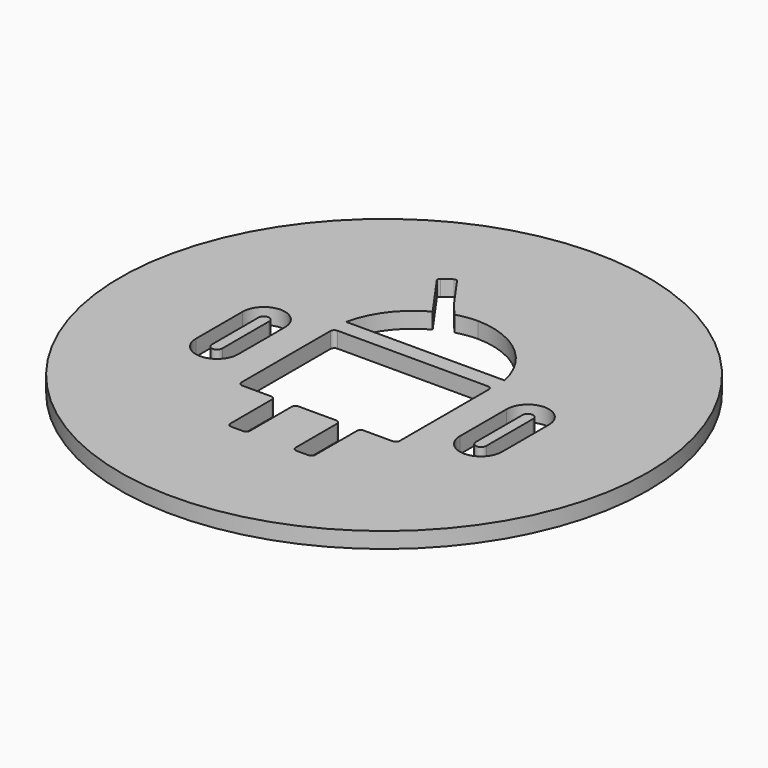
from build123d import *

# Parameters (mm, degrees)
F0_R     = 50
F2_DEPTH = 3
F4_R     = 1.5
F5_DEPTH = 3
F6_DEPTH = 3


with BuildPart() as f2:
    # F0 (on Top) → F2 (new body)
    with BuildSketch(Plane.XY):
        Circle(F0_R)
    extrude(amount=F2_DEPTH)

    # F4 (on face) → F5 (cut)
    with BuildSketch(Plane.XY.offset(3)):
        with BuildLine():
            Line((-15, 9.7737704918), (0, 9.7737704918))
            Line((0, 9.7737704918), (15, 9.7737704918))
            ThreePointArc((15, 9.7737704918), (9.6695107404, 18.6041395087), (0, 22.1944173204))
            ThreePointArc((0, 22.1944173204), (-1.9935135756, 22.0276872196), (-3.9494299266, 21.6078223243))
            ThreePointArc((-3.9494299266, 21.6078223243), (-5.5466032745, 21.0617176712), (-7.0756111193, 20.3466456428))
            ThreePointArc((-7.0756111193, 20.3466456428), (-12.2093202117, 15.9382603993), (-15, 9.7737704918))
        make_face()
        with Locations((-7.5, 16.0260769339)):
            Circle(F4_R, mode=Mode.SUBTRACT)
        with Locations((7.5, 16.0260769339)):
            Circle(F4_R, mode=Mode.SUBTRACT)
        with Locations((-7.5, 16.0260769339)):
            Circle(F4_R)
        with Locations((7.5, 16.0260769339)):
            Circle(F4_R)
        with BuildLine():
            ThreePointArc((21, -8.3022542986), (25, -12.3022542986), (29, -8.3022542986))
            Line((29, -8.3022542986), (29, 2.7737704918))
            ThreePointArc((29, 2.7737704918), (25, 6.7737704918), (21, 2.7737704918))
            Line((21, 2.7737704918), (21, -8.3022542986))
        make_face()
        with BuildLine():
            Line((26, 2.7737704918), (26, -8.3022542986))
            ThreePointArc((26, -8.3022542986), (25, -9.3022542986), (24, -8.3022542986))
            Line((24, -8.3022542986), (24, 2.7737704918))
            ThreePointArc((24, 2.7737704918), (25, 3.7737704918), (26, 2.7737704918))
        make_face(mode=Mode.SUBTRACT)
        with BuildLine():
            Line((-21, -8.3022542986), (-21, 2.7737704918))
            ThreePointArc((-21, 2.7737704918), (-25, 6.7737704918), (-29, 2.7737704918))
            Line((-29, 2.7737704918), (-29, -8.3022542986))
            ThreePointArc((-29, -8.3022542986), (-25, -12.3022542986), (-21, -8.3022542986))
        make_face()
        with BuildLine():
            Line((-26, -8.3022542986), (-26, 2.7737704918))
            ThreePointArc((-26, 2.7737704918), (-25, 3.7737704918), (-24, 2.7737704918))
            Line((-24, 2.7737704918), (-24, -8.3022542986))
            ThreePointArc((-24, -8.3022542986), (-25, -9.3022542986), (-26, -8.3022542986))
        make_face(mode=Mode.SUBTRACT)
        with BuildLine():
            Line((14.25, 6.7737704918), (0, 6.7737704918))
            Line((0, 6.7737704918), (-14.25, 6.7737704918))
            ThreePointArc((-14.25, 6.7737704918), (-14.7803300859, 6.5541005777), (-15, 6.0237704918))
            Line((-15, 6.0237704918), (-15, -15.0237704918))
            ThreePointArc((-15, -15.0237704918), (-14.7803300859, -15.5541005777), (-14.25, -15.7737704918))
            Line((-14.25, -15.7737704918), (-8.7902552709, -15.7737704918))
            ThreePointArc((-8.7902552709, -15.7737704918), (-8.259925185, -15.9934404059), (-8.0402552709, -16.5237704918))
            Line((-8.0402552709, -16.5237704918), (-8.0402552709, -26.3196417335))
            ThreePointArc((-8.0402552709, -26.3196417335), (-7.8205853568, -26.8499718194), (-7.2902552709, -27.0696417335))
            Line((-7.2902552709, -27.0696417335), (-5.0634240992, -27.0696417335))
            ThreePointArc((-5.0634240992, -27.0696417335), (-4.5330940133, -26.8499718194), (-4.3134240992, -26.3196417335))
            Line((-4.3134240992, -26.3196417335), (-4.3134240992, -16.5237704918))
            ThreePointArc((-4.3134240992, -16.5237704918), (-4.0937541851, -15.9934404059), (-3.5634240992, -15.7737704918))
            Line((-3.5634240992, -15.7737704918), (0, -15.7737704918))
            Line((0, -15.7737704918), (3.5634240992, -15.7737704918))
            ThreePointArc((3.5634240992, -15.7737704918), (4.0937541851, -15.9934404059), (4.3134240992, -16.5237704918))
            Line((4.3134240992, -16.5237704918), (4.3134240992, -26.3196417335))
            ThreePointArc((4.3134240992, -26.3196417335), (4.5330940133, -26.8499718194), (5.0634240992, -27.0696417335))
            Line((5.0634240992, -27.0696417335), (7.2902552709, -27.0696417335))
            ThreePointArc((7.2902552709, -27.0696417335), (7.8205853568, -26.8499718194), (8.0402552709, -26.3196417335))
            Line((8.0402552709, -26.3196417335), (8.0402552709, -16.5237704918))
            ThreePointArc((8.0402552709, -16.5237704918), (8.259925185, -15.9934404059), (8.7902552709, -15.7737704918))
            Line((8.7902552709, -15.7737704918), (14.25, -15.7737704918))
            ThreePointArc((14.25, -15.7737704918), (14.7803300859, -15.5541005777), (15, -15.0237704918))
            Line((15, -15.0237704918), (15, 6.0237704918))
            ThreePointArc((15, 6.0237704918), (14.7803300859, 6.5541005777), (14.25, 6.7737704918))
        make_face()
        with BuildLine():
            Line((-8.7947665615, 22.7851378335), (-7.0756111193, 20.3466456428))
            ThreePointArc((-7.0756111193, 20.3466456428), (-5.5466032745, 21.0617176712), (-3.9494299266, 21.6078223243))
            Line((-3.9494299266, 21.6078223243), (-6.0317090645, 24.0724215661))
            Line((-6.0317090645, 24.0724215661), (-10.397607046, 30.2651182078))
            ThreePointArc((-10.397607046, 30.2651182078), (-10.7210180797, 30.4696956081), (-11.0943622817, 30.3856675401))
            Line((-11.0943622817, 30.3856675401), (-12.7289714176, 29.2332557331))
            ThreePointArc((-12.7289714176, 29.2332557331), (-12.9335488179, 28.9098446994), (-12.8495207498, 28.5365004974))
            Line((-12.8495207498, 28.5365004974), (-8.7947665615, 22.7851378335))
        make_face()
    extrude(amount=-F5_DEPTH, mode=Mode.SUBTRACT)

    # F4 (on face) → F6 (cut)
    with BuildSketch(Plane.XY.offset(3)):
        with Locations((-7.5, 16.0260769339)):
            Circle(F4_R)
        with Locations((7.5, 16.0260769339)):
            Circle(F4_R)
    extrude(amount=-F6_DEPTH, mode=Mode.SUBTRACT)


solid = f2.part
